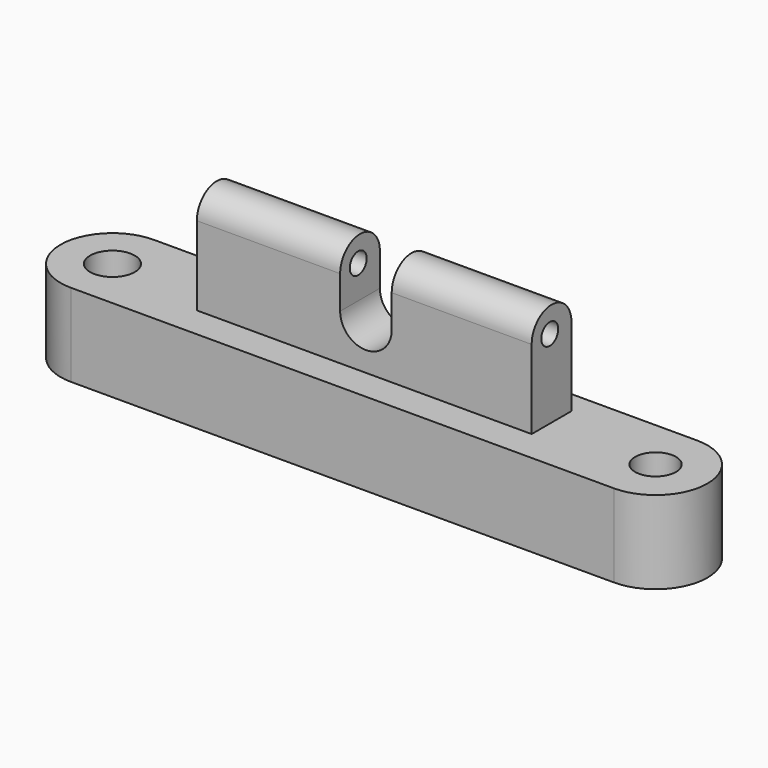
from build123d import *

# Parameters (mm, degrees)
F0_R     = 3.423764
F0_R_2   = 3.131855
F1_DEPTH = 12.7
F2_W     = 7.610706
F2_H     = 12.099074
F3_DEPTH = 25.4
F4_DEPTH = 25.908
F5_R     = 1.618996
F6_DEPTH = 55.88
F7_W     = 7.903422
F7_H     = 22.246681
F8_DEPTH = 25.4
F9_DEPTH = 20.828


with BuildPart() as f1:
    # F0 (on Top) → F1 (new body)
    with BuildSketch(Plane.XY):
        with BuildLine():
            Line((-41.614961, -7.952213), (41.614961, -7.952213))
            ThreePointArc((41.614961, -7.952213), (49.567174, 0), (41.614961, 7.952213))
            Line((41.614961, 7.952213), (-41.614961, 7.952213))
            ThreePointArc((-41.614961, 7.952213), (-49.567174, 0), (-41.614961, -7.952213))
        make_face()
        with Locations((-41.614961, 0)):
            Circle(F0_R, mode=Mode.SUBTRACT)
        with Locations((41.614961, 0)):
            Circle(F0_R_2, mode=Mode.SUBTRACT)
    extrude(amount=F1_DEPTH)


with BuildPart() as f3:
    # F2 (on Right) → F3 (new body)
    with BuildSketch(Plane.YZ):
        with Locations((0.341506, 18.977982)):
            Rectangle(F2_W, F2_H)
        with BuildLine():
            ThreePointArc((4.146859, 25.027519), (0.341506, 28.832872), (-3.463847, 25.027519))
            Line((-3.463847, 25.027519), (4.146859, 25.027519))
        make_face()
    extrude(amount=F3_DEPTH)

    # F2 (on Right) → F4 (join)
    with BuildSketch(Plane.YZ):
        with Locations((0.341506, 18.977982)):
            Rectangle(F2_W, F2_H)
        with BuildLine():
            ThreePointArc((4.146859, 25.027519), (0.341506, 28.832872), (-3.463847, 25.027519))
            Line((-3.463847, 25.027519), (4.146859, 25.027519))
        make_face()
    extrude(amount=-F4_DEPTH)

    # F5 (on face) → F6 (cut)
    with BuildSketch(Plane(origin=(-25.908, 0, 0), x_dir=(0, -1, 0), z_dir=(-1, 0, 0))):
        with Locations((0, 25.027519)):
            Circle(F5_R)
    extrude(amount=-F6_DEPTH, mode=Mode.SUBTRACT)

    # F7 (on Front) → F8 (cut)
    with BuildSketch(Plane.XZ):
        with BuildLine():
            ThreePointArc((-3.951711, 19.953713), (0, 16.002002), (3.951711, 19.953713))
            Line((3.951711, 19.953713), (-3.951711, 19.953713))
        make_face()
        with Locations((0, 31.077053)):
            Rectangle(F7_W, F7_H)
    extrude(amount=-F8_DEPTH, mode=Mode.SUBTRACT)

    # F7 (on Front) → F9 (cut)
    with BuildSketch(Plane.XZ):
        with BuildLine():
            ThreePointArc((-3.951711, 19.953713), (0, 16.002002), (3.951711, 19.953713))
            Line((3.951711, 19.953713), (-3.951711, 19.953713))
        make_face()
        with Locations((0, 31.077053)):
            Rectangle(F7_W, F7_H)
    extrude(amount=F9_DEPTH, mode=Mode.SUBTRACT)


solid = Compound([f1.part, f3.part])
